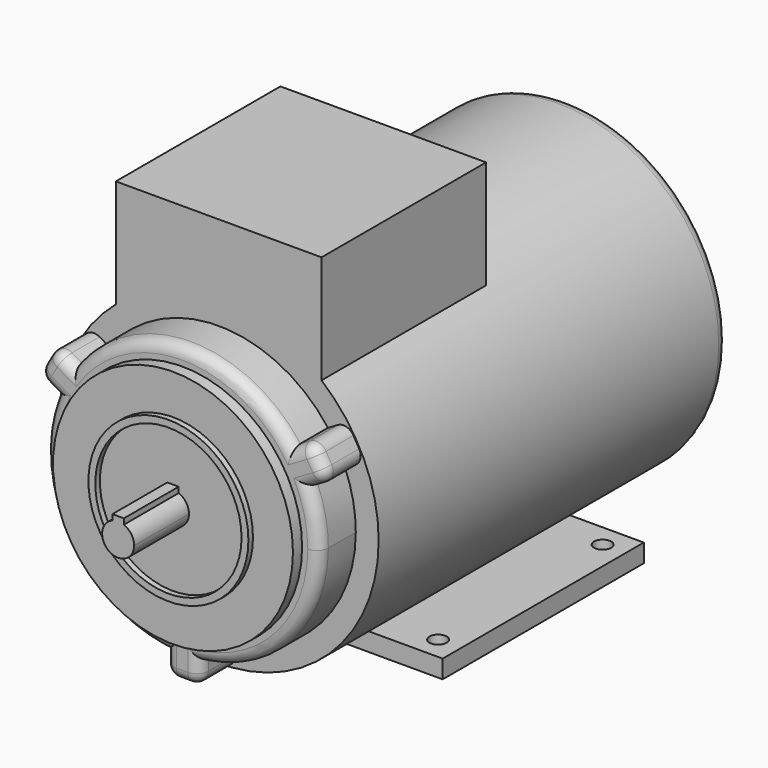
from build123d import *

# Parameters (mm, degrees)
F0_R      = 70
F1_DEPTH  = 191
F3_DEPTH  = 20
F4_R      = 52.5
F5_DEPTH  = 5
F6_R      = 35
F6_R_2    = 32
F7_DEPTH  = 2.5
F9_DEPTH  = 30
F10_W     = 90
F10_H     = 90
F11_DEPTH = 101
F13_W     = 132
F13_H     = 110
F13_R     = 3.75
F14_DEPTH = 8
F15_R     = 5


with BuildPart() as f1:
    # F0 (on Front) → F1 (new body)
    with BuildSketch(Plane.XZ):
        Circle(F0_R)
    extrude(amount=F1_DEPTH)

    # F2 (on face) → F3 (join)
    with BuildSketch(Plane.XZ.offset(191)):
        with BuildLine():
            ThreePointArc((7.5, -59.529404499), (45, -39.686269666), (60, 0))
            ThreePointArc((60, 0), (58.8142780033, 11.8693177122), (55.3039765683, 23.2695117211))
            Line((55.3039765683, 23.2695117211), (47.8039765683, 36.2598927779))
            ThreePointArc((47.8039765683, 36.2598927779), (0, 60), (-47.8039765683, 36.2598927779))
            Line((-47.8039765683, 36.2598927779), (-55.3039765683, 23.2695117211))
            ThreePointArc((-55.3039765683, 23.2695117211), (-51.9615242271, -30), (-7.5, -59.529404499))
            Line((-7.5, -59.529404499), (7.5, -59.529404499))
        make_face()
        with BuildLine():
            Line((47.8039765683, 36.2598927779), (55.3039765683, 23.2695117211))
            ThreePointArc((55.3039765683, 23.2695117211), (51.9615242271, 30), (47.8039765683, 36.2598927779))
        make_face()
        with BuildLine():
            ThreePointArc((47.8039765683, 36.2598927779), (51.9615242271, 30), (55.3039765683, 23.2695117211))
            Line((55.3039765683, 23.2695117211), (63.9642306061, 28.2695117211))
            Line((63.9642306061, 28.2695117211), (56.4642306061, 41.2598927779))
            Line((56.4642306061, 41.2598927779), (47.8039765683, 36.2598927779))
        make_face()
        with BuildLine():
            Line((7.5, -69.529404499), (7.5, -59.529404499))
            ThreePointArc((7.5, -59.529404499), (0, -60), (-7.5, -59.529404499))
            Line((-7.5, -59.529404499), (-7.5, -69.529404499))
            Line((-7.5, -69.529404499), (7.5, -69.529404499))
        make_face()
        with BuildLine():
            ThreePointArc((-7.5, -59.529404499), (0, -60), (7.5, -59.529404499))
            Line((7.5, -59.529404499), (-7.5, -59.529404499))
        make_face()
        with BuildLine():
            Line((-55.3039765683, 23.2695117211), (-47.8039765683, 36.2598927779))
            ThreePointArc((-47.8039765683, 36.2598927779), (-51.9615242271, 30), (-55.3039765683, 23.2695117211))
        make_face()
        with BuildLine():
            ThreePointArc((-55.3039765683, 23.2695117211), (-51.9615242271, 30), (-47.8039765683, 36.2598927779))
            Line((-47.8039765683, 36.2598927779), (-56.4642306061, 41.2598927779))
            Line((-56.4642306061, 41.2598927779), (-63.9642306061, 28.2695117211))
            Line((-63.9642306061, 28.2695117211), (-55.3039765683, 23.2695117211))
        make_face()
    extrude(amount=F3_DEPTH)

    # F4 (on face) → F5 (join)
    with BuildSketch(Plane.XZ.offset(211)):
        Circle(F4_R)
    extrude(amount=F5_DEPTH)

    # F6 (on face) → F7 (join)
    with BuildSketch(Plane.XZ.offset(216)):
        Circle(F6_R)
        Circle(F6_R_2, mode=Mode.SUBTRACT)
    extrude(amount=F7_DEPTH)

    # F8 (on face) → F9 (join)
    with BuildSketch(Plane.XZ.offset(216)):
        with BuildLine():
            ThreePointArc((-2.5, 6.5383484153), (-3.9686269666, -5.7662812973), (7, 0))
            ThreePointArc((7, 0), (5.7662812973, 3.9686269666), (2.5, 6.5383484153))
            Line((2.5, 6.5383484153), (2.5, 4))
            Line((2.5, 4), (-2.5, 4))
            Line((-2.5, 4), (-2.5, 6.5383484153))
        make_face()
        with BuildLine():
            Line((2.5, 4), (2.5, 6.5383484153))
            ThreePointArc((2.5, 6.5383484153), (0, 7), (-2.5, 6.5383484153))
            Line((-2.5, 6.5383484153), (-2.5, 4))
            Line((-2.5, 4), (2.5, 4))
        make_face()
        with BuildLine():
            ThreePointArc((-2.5, 6.5383484153), (0, 7), (2.5, 6.5383484153))
            Line((2.5, 6.5383484153), (2.5, 9))
            Line((2.5, 9), (-2.5, 9))
            Line((-2.5, 9), (-2.5, 6.5383484153))
        make_face()
    extrude(amount=F9_DEPTH)

    # F10 (on Top) → F11 (join)
    with BuildSketch(Plane.XY):
        with Locations((0, -146)):
            Rectangle(F10_W, F10_H)
    extrude(amount=F11_DEPTH)

    # F13 (on offset) → F14 (join)
    with BuildSketch(Plane.XY.offset(-71)):
        with Locations((0, -96)):
            Rectangle(F13_W, F13_H)
        with Locations((-56, -141)):
            Circle(F13_R, mode=Mode.SUBTRACT)
        with Locations((56, -141)):
            Circle(F13_R, mode=Mode.SUBTRACT)
        with Locations((-56, -51)):
            Circle(F13_R, mode=Mode.SUBTRACT)
        with Locations((56, -51)):
            Circle(F13_R, mode=Mode.SUBTRACT)
    extrude(amount=F14_DEPTH)

    # F15
    f15_edges = [f1.edges().sort_by_distance(p)[0] for p in [
        (-70, 0, 0),
        (0, -211, 60),
        (52.134104, -211, 38.759893),
        (59.634104, -211, 25.769512),
        (-51.961524, -211, -30),
        (7.5, -211, -64.529404),
        (0, -211, -69.529404),
        (-7.5, -211, -64.529404),
        (51.961524, -211, -30),
        (-59.634104, -211, 25.769512),
        (-60.214231, -211, 34.764702),
        (-52.134104, -211, 38.759893),
        (-56.464231, -201, 41.259893),
        (-63.964231, -201, 28.269512),
        (56.464231, -201, 41.259893),
        (63.964231, -201, 28.269512),
        (7.5, -201, -69.529404),
        (-7.5, -201, -69.529404),
        (60.214231, -211, 34.764702),
    ]]
    fillet(f15_edges, radius=F15_R)


solid = f1.part
